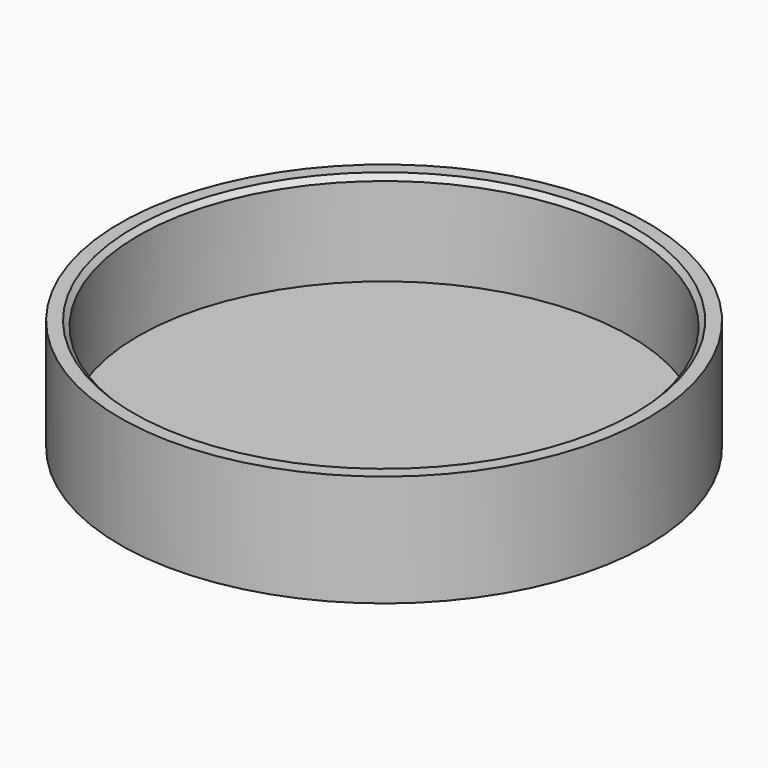
from build123d import *

# Parameters (mm, degrees)
F0_R     = 26
F1_DEPTH = 11
F2_T     = -1.8
F3_SIZE  = 0.5


with BuildPart() as f1:
    # F0 (on Top) → F1 (new body)
    with BuildSketch(Plane.XY):
        Circle(F0_R)
    extrude(amount=F1_DEPTH)

    # F2
    f2_openings = [f1.faces().sort_by_distance(p)[0] for p in [
        (0, 0, 11),
    ]]
    offset(amount=F2_T, openings=f2_openings)

    # F3
    f3_edges = [f1.edges().sort_by_distance(p)[0] for p in [
        (-24.2, 0, 11),
    ]]
    chamfer(f3_edges, length=F3_SIZE)


solid = f1.part
